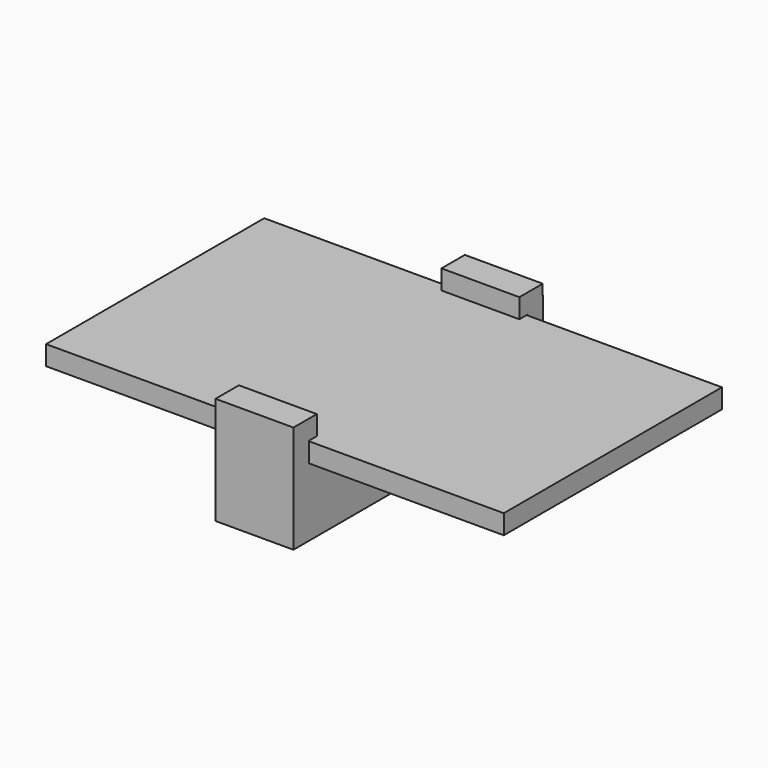
from build123d import *

# Parameters (mm, degrees)
BOX004_W     = 47
BOX004_H     = 28
BOX004_DEPTH = 2
BOX005_W     = 8
BOX005_H     = 3
BOX005_DEPTH = 2
BOX001_W     = 80
BOX001_H     = 4.5
BOX001_DEPTH = 1.6
BOX_W        = 80
BOX_H        = 4.5
BOX_DEPTH    = 1.6
BOX002_W     = 8
BOX002_H     = 7.5
BOX002_DEPTH = 7
FILLET_R     = 0.3
BOX003_W     = 8
BOX003_H     = 2
BOX003_DEPTH = 10
BOX006_W     = 8
BOX006_H     = 21
BOX006_DEPTH = 7
BOX007_W     = 8
BOX007_H     = 3
BOX007_DEPTH = 2
BOX008_W     = 8
BOX008_H     = 2
BOX008_DEPTH = 10


with BuildPart() as bat:
    # Box004 → Box004 (new body)
    with BuildSketch(Plane(origin=(-19, -24.3, 3.25), x_dir=(1, 0, 0), z_dir=(0, 0, 1))):
        with Locations((23.5, 14)):
            Rectangle(BOX004_W, BOX004_H)
    extrude(amount=BOX004_DEPTH)


with BuildPart() as cube005:
    # Box005 → Box005 (new body)
    with BuildSketch(Plane(origin=(0, 2.7, 5.3), x_dir=(1, 0, 0), z_dir=(0, 0, 1))):
        with Locations((4, 1.5)):
            Rectangle(BOX005_W, BOX005_H)
    extrude(amount=BOX005_DEPTH)


with BuildPart() as cube001:
    # Box001 → Box001 (new body)
    with BuildSketch(Plane(origin=(0, 0.8, -2.25), x_dir=(1, 0, 0), z_dir=(0, -1, 0))):
        with Locations((40, 2.25)):
            Rectangle(BOX001_W, BOX001_H)
    extrude(amount=BOX001_DEPTH)


with BuildPart() as fusion:
    # Box → Box (new body)
    with BuildSketch(Plane(origin=(0, -2.25, -0.8), x_dir=(1, 0, 0), z_dir=(0, 0, 1))):
        with Locations((40, 2.25)):
            Rectangle(BOX_W, BOX_H)
    extrude(amount=BOX_DEPTH)

    # Fusion: union Cube001
    add(cube001.part)


with BuildPart() as fusion_1:
    # Fusion placement: moved
    add(fusion.part.moved(Location((-5, 0, 0))))


with BuildPart() as fillet_body:
    # Box002 → Box002 (new body)
    with BuildSketch(Plane(origin=(0, -3.75, -3.75), x_dir=(1, 0, 0), z_dir=(0, 0, 1))):
        with Locations((4, 3.75)):
            Rectangle(BOX002_W, BOX002_H)
    extrude(amount=BOX002_DEPTH)

    # Cut: cut Fusion
    add(fusion_1.part, mode=Mode.SUBTRACT)

    # Fillet
    fillet_edges = [fillet_body.edges().sort_by_distance(p)[0] for p in [
        (4, -0.8, 0.8),
        (4, -0.8, -0.8),
        (4, 0.8, -0.8),
        (4, 0.8, 0.8),
    ]]
    fillet(fillet_edges, radius=FILLET_R)


with BuildPart() as fusion001:
    # Box003 → Box003 (new body)
    with BuildSketch(Plane(origin=(0, 3.75, -3.75), x_dir=(1, 0, 0), z_dir=(0, 0, 1))):
        with Locations((4, 1)):
            Rectangle(BOX003_W, BOX003_H)
    extrude(amount=BOX003_DEPTH)

    # Fusion001: union Cube005, Fillet body
    add(cube005.part)
    add(fillet_body.part)


with BuildPart() as fusion002:
    # Box006 → Box006 (new body)
    with BuildSketch(Plane(origin=(0, -24.3, -3.75), x_dir=(1, 0, 0), z_dir=(0, 0, 1))):
        with Locations((4, 10.5)):
            Rectangle(BOX006_W, BOX006_H)
    extrude(amount=BOX006_DEPTH)

    # Fusion002: union Fusion001
    add(fusion001.part)


with BuildPart() as cube007:
    # Box007 → Box007 (new body)
    with BuildSketch(Plane(origin=(0, -26.3, 5.3), x_dir=(1, 0, 0), z_dir=(0, 0, 1))):
        with Locations((4, 1.5)):
            Rectangle(BOX007_W, BOX007_H)
    extrude(amount=BOX007_DEPTH)


with BuildPart() as fusion004:
    # Box008 → Box008 (new body)
    with BuildSketch(Plane(origin=(0, -26.3, -3.75), x_dir=(1, 0, 0), z_dir=(0, 0, 1))):
        with Locations((4, 1)):
            Rectangle(BOX008_W, BOX008_H)
    extrude(amount=BOX008_DEPTH)

    # Fusion003: union Cube007
    add(cube007.part)

    # Fusion004: union Fusion002
    add(fusion002.part)


solid = Compound([bat.part, fusion004.part])
